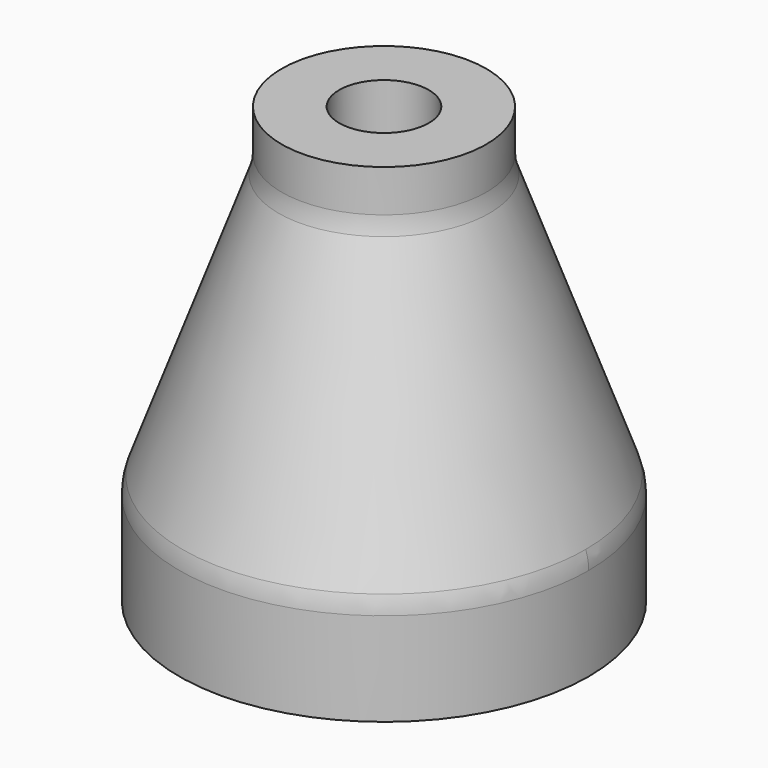
from build123d import *

# Parameters (mm, degrees)
F0_R     = 8
F1_DEPTH = 17
F5_D     = 3.5
F7_D     = 5
F7_DEPTH = 10
F7_TIP   = 1.5021515476
F8_R     = 2


with BuildPart() as f1:
    # F0 (on Top) → F1 (new body)
    with BuildSketch(Plane.XY):
        Circle(F0_R)
    extrude(amount=F1_DEPTH)

    # F2 (on Right) → F3 (revolve, cut)
    with BuildSketch(Plane.YZ):
        Polygon((4, 15), (8, 4), (8, 17), (4, 17), align=None)
    revolve(axis=Axis((0, 0, 9.1980583966), (0, 0, 1)), mode=Mode.SUBTRACT)

    # F5 (through all)
    with Locations(Plane.XY.offset(17)):
        with Locations((0, 0)):
            Hole(F5_D / 2)

    # F7
    with Locations(Plane(origin=(0, 0, 0), x_dir=(1, 0, 0), z_dir=(0, 0, -1))):
        with Locations((0, 0)):
            Hole(F7_D / 2, depth=F7_DEPTH)
            with Locations((0, 0, -(F7_DEPTH + F7_TIP / 2))):  # 118° drill point
                Cone(0, F7_D / 2, F7_TIP, mode=Mode.SUBTRACT)

    # F8
    f8_edges = [f1.edges().sort_by_distance(p)[0] for p in [
        (0, 6, 9.5),
        (-5.656854, -5.656854, 4),
        (5.656854, 5.656854, 4),
        (0, -4, 15),
    ]]
    fillet(f8_edges, radius=F8_R)


solid = f1.part
